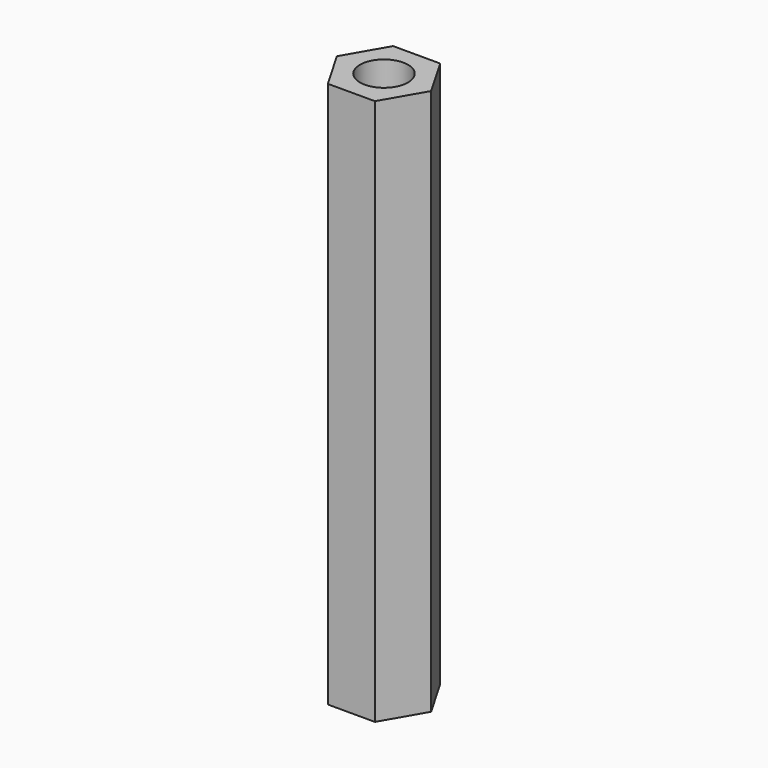
from build123d import *

# Parameters (mm, degrees)
SKETCH_R  = 2.55
PAD_DEPTH = 58
FILLET_R  = 1


with BuildPart() as part:
    # Sketch → Pad (new body)
    with BuildSketch(Plane.XY):
        Polygon((-5, 0), (-2.5, -4.330127), (2.5, -4.330127), (5, 0), (2.5, 4.330127), (-2.5, 4.330127), align=None)
        Circle(SKETCH_R, mode=Mode.SUBTRACT)
    extrude(amount=PAD_DEPTH)

    # Fillet
    fillet_edges = [part.edges().sort_by_distance(p)[0] for p in [
        (-2.55, 0, 0),
    ]]
    fillet(fillet_edges, radius=FILLET_R)


solid = part.part
